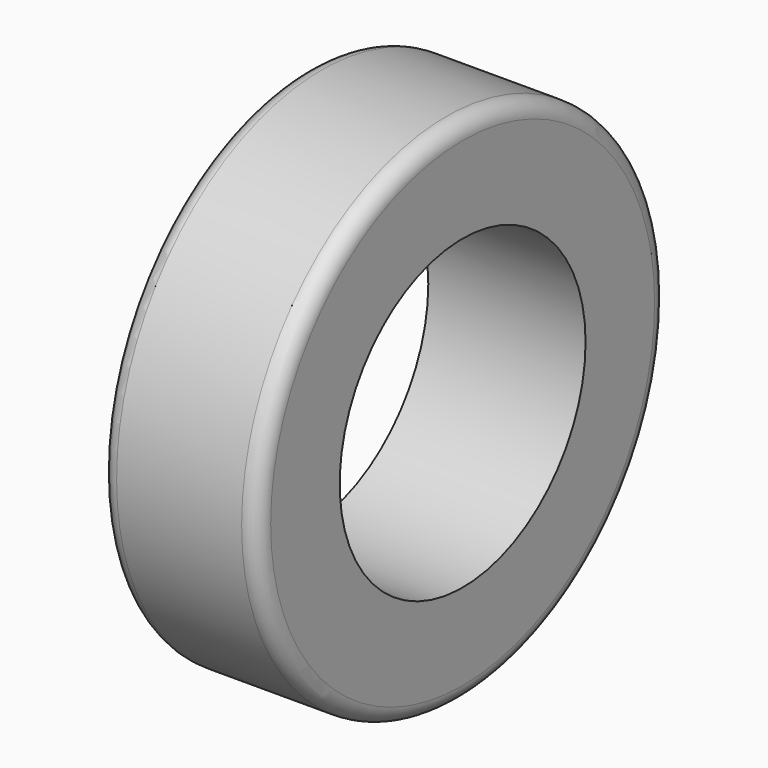
from build123d import *

# Parameters (mm, degrees)
F0_R     = 317.5
F0_R_2   = 190.5
F1_DEPTH = 97.5
F2_R     = 20


with BuildPart() as f1:
    # F0 (on Right) → F1 (new body, symmetric)
    with BuildSketch(Plane.YZ):
        Circle(F0_R)
        Circle(F0_R_2, mode=Mode.SUBTRACT)
    extrude(amount=F1_DEPTH, both=True)

    # F2
    f2_edges = [f1.edges().sort_by_distance(p)[0] for p in [
        (97.5, -317.5, 0),
        (-97.5, -317.5, 0),
    ]]
    fillet(f2_edges, radius=F2_R)


solid = f1.part
